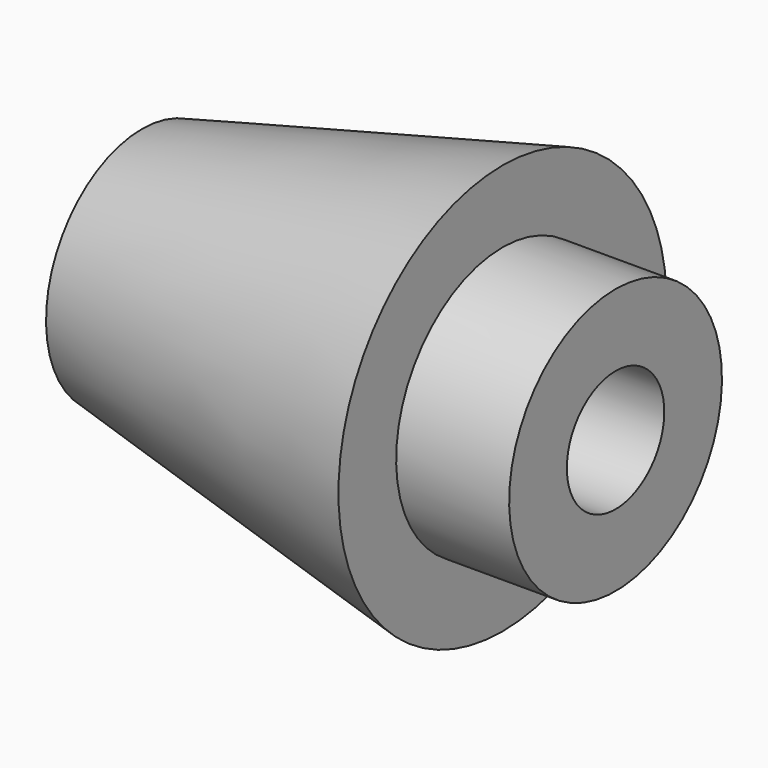
from build123d import *

# Parameters (mm, degrees)
F0_W = 0.876817
F0_H = 0.55965


with BuildPart() as f1:
    # F0 (on Front) → F1 (revolve)
    with BuildSketch(Plane.XZ):
        Polygon((-1.484011, 0.930408), (-1.534888, 0.472512), (1.314244, 0.472512), (1.314244, 1.032162), (1.314244, 1.591813), align=None)
        with Locations((1.752652, 0.752337)):
            Rectangle(F0_W, F0_H)
    revolve(axis=Axis((-0.003102, 0, 0), (1, 0, 0)))


solid = f1.part
